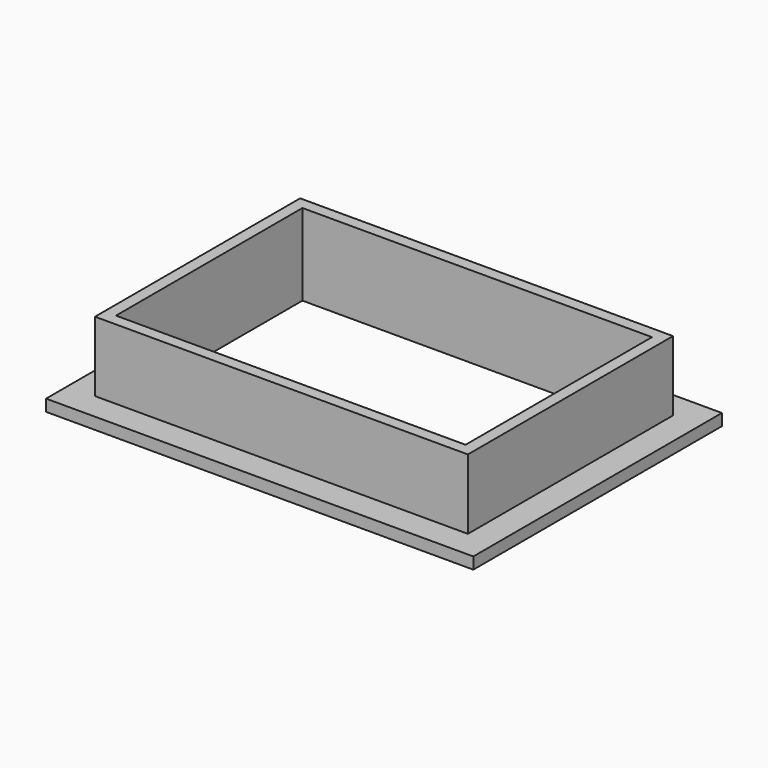
from build123d import *

# Parameters (mm, degrees)
F0_W     = 110
F0_H     = 80
F0_W_2   = 90
F0_H_2   = 60
F1_DEPTH = 3
F2_W     = 96
F2_H     = 66
F2_W_2   = 90
F2_H_2   = 60
F3_DEPTH = 18


with BuildPart() as f1:
    # F0 (on Top) → F1 (new body)
    with BuildSketch(Plane.XY):
        with Locations((55, 40)):
            Rectangle(F0_W, F0_H)
        with Locations((55, 40)):
            Rectangle(F0_W_2, F0_H_2, mode=Mode.SUBTRACT)
    extrude(amount=F1_DEPTH)

    # F2 (on face) → F3 (join)
    with BuildSketch(Plane.XY.offset(3)):
        with Locations((55, 40)):
            Rectangle(F2_W, F2_H)
        with Locations((55, 40)):
            Rectangle(F2_W_2, F2_H_2, mode=Mode.SUBTRACT)
    extrude(amount=F3_DEPTH)


solid = f1.part
